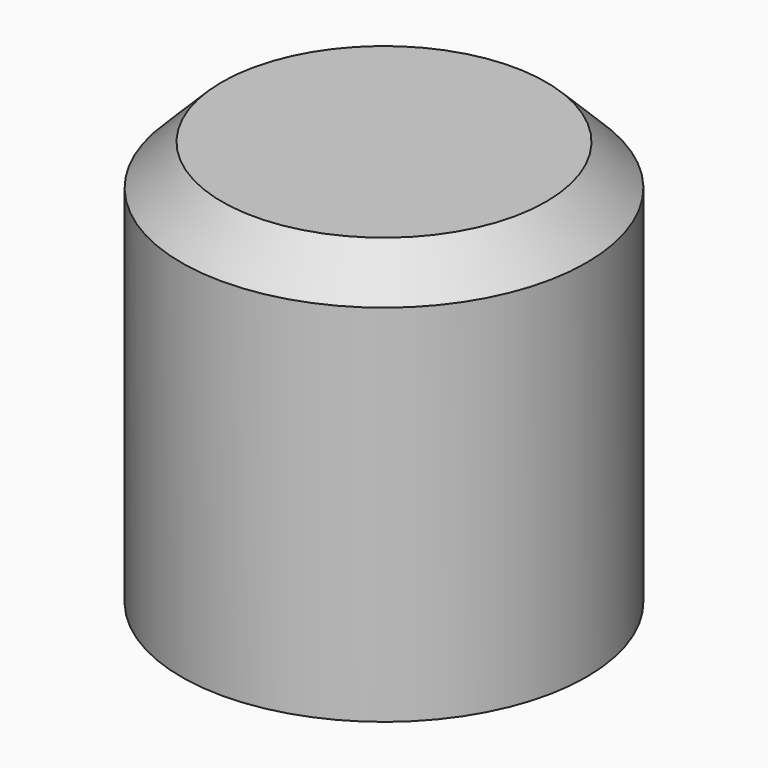
from build123d import *

# Parameters (mm, degrees)
F0_R     = 12.7
F1_DEPTH = 25.4
F2_SIZE2 = 2.54
F2_SIZE  = 2.54


with BuildPart() as f1:
    # F0 (on Top) → F1 (new body)
    with BuildSketch(Plane.XY):
        Circle(F0_R)
    extrude(amount=F1_DEPTH)

    # F2
    f2_edges = [f1.edges().sort_by_distance(p)[0] for p in [
        (-12.7, 0, 25.4),
    ]]
    chamfer(f2_edges, length=F2_SIZE, length2=F2_SIZE2)


solid = f1.part
